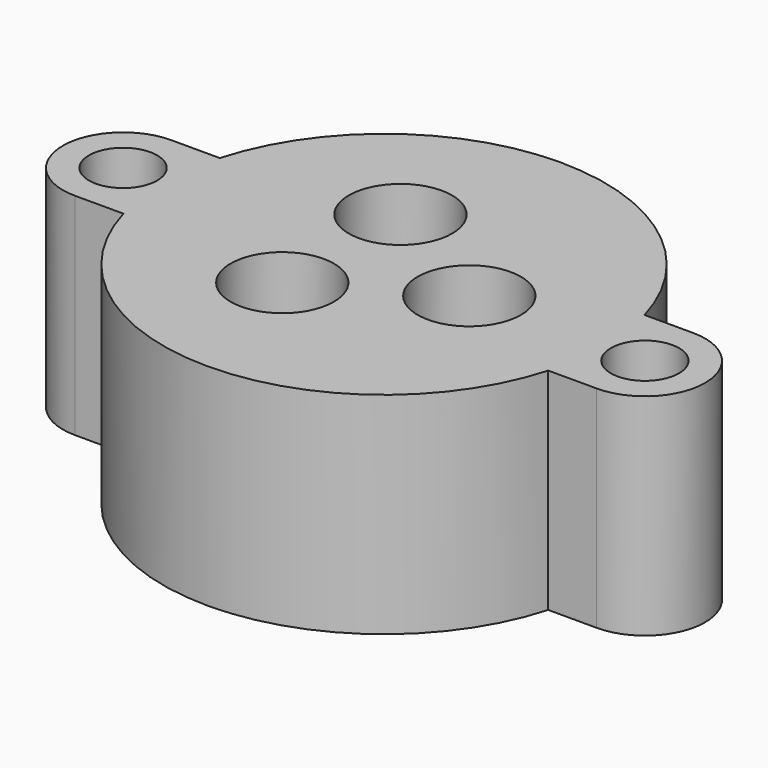
from build123d import *

# Parameters (mm, degrees)
CYLINDER203_R     = 1.7
CYLINDER203_DEPTH = 11
CYLINDER200_R     = 7.14375
CYLINDER200_DEPTH = 2.38125
CYLINDER208_R     = 9.525
CYLINDER208_DEPTH = 2.38125
CYLINDER209_R     = 2.2
CYLINDER209_DEPTH = 9
CYLINDER206_R     = 0.8
CYLINDER206_DEPTH = 5
CYLINDER207_R     = 2.575
CYLINDER207_DEPTH = 6
ARRAY005_COUNT    = 3
CYLINDER202_R     = 1.7
CYLINDER202_DEPTH = 11
BOX011_W          = 3
BOX011_H          = 6
BOX011_DEPTH      = 10.5
BOX010_W          = 3
BOX010_H          = 6
BOX010_DEPTH      = 10.5
CYLINDER201_R     = 3
CYLINDER201_DEPTH = 10.5
CYLINDER204_R     = 11
CYLINDER204_DEPTH = 10.5
CYLINDER205_R     = 3
CYLINDER205_DEPTH = 10.5


with BuildPart() as obj1:
    # Cylinder203 → Cylinder203 (new body)
    with BuildSketch(Plane(origin=(-13, 0, 0), x_dir=(1, 0, 0), z_dir=(0, 0, 1))):
        Circle(CYLINDER203_R)
    extrude(amount=CYLINDER203_DEPTH)


with BuildPart() as cylinder018:
    # Cylinder200 → Cylinder200 (new body)
    with BuildSketch(Plane.XY):
        Circle(CYLINDER200_R)
    extrude(amount=CYLINDER200_DEPTH)


with BuildPart() as oring005:
    # Cylinder208 → Cylinder208 (new body)
    with BuildSketch(Plane.XY):
        Circle(CYLINDER208_R)
    extrude(amount=CYLINDER208_DEPTH)

    # Cut029: cut Cylinder018
    add(cylinder018.part, mode=Mode.SUBTRACT)


with BuildPart() as oring005_1:
    # Cut029 placement: moved
    add(oring005.part.moved(Location((0, 0, -0.75))))


with BuildPart() as sealsubtraction005:
    # Cylinder209 → Cylinder209 (new body)
    with BuildSketch(Plane.XY.offset(1.3)):
        Circle(CYLINDER209_R)
    extrude(amount=CYLINDER209_DEPTH)


with BuildPart() as bottomwireoutlet005:
    # Cylinder206 → Cylinder206 (new body)
    with BuildSketch(Plane.XY.offset(-2)):
        Circle(CYLINDER206_R)
    extrude(amount=CYLINDER206_DEPTH)


with BuildPart() as sealarray005:
    # Cylinder207 → Cylinder207 (new body)
    with BuildSketch(Plane.XY.offset(4.5)):
        Circle(CYLINDER207_R)
    extrude(amount=CYLINDER207_DEPTH)

    # Fusion015: union SealSubtraction005, BottomWireOutlet005
    add(sealsubtraction005.part)
    add(bottomwireoutlet005.part)


with BuildPart() as sealarray005_1:
    # Fusion015 placement: moved
    add(sealarray005.part.moved(Location((4.25, 0, 0))))

    # Array005: SealArray005 ×3 about axis
    array005_axis = Axis((0, 0, 0), (0, 0, 1))


with BuildPart() as sealarray005_2:
    add(sealarray005_1.part)
    for i in range(1, ARRAY005_COUNT):
        add(sealarray005_1.part.rotate(array005_axis, i * 360 / ARRAY005_COUNT))


with BuildPart() as fusion016:
    # Cylinder202 → Cylinder202 (new body)
    with BuildSketch(Plane(origin=(13, 0, 0), x_dir=(1, 0, 0), z_dir=(0, 0, 1))):
        Circle(CYLINDER202_R)
    extrude(amount=CYLINDER202_DEPTH)

    # Fusion016: union obj1, Oring005, SealArray005
    add(obj1.part)
    add(oring005_1.part)
    add(sealarray005_2.part)


with BuildPart() as mountcube012:
    # Box011 → Box011 (new body)
    with BuildSketch(Plane(origin=(10, -3, 0), x_dir=(1, 0, 0), z_dir=(0, 0, 1))):
        with Locations((1.5, 3)):
            Rectangle(BOX011_W, BOX011_H)
    extrude(amount=BOX011_DEPTH)


with BuildPart() as mountcube011:
    # Box010 → Box010 (new body)
    with BuildSketch(Plane(origin=(-13, -3, 0), x_dir=(1, 0, 0), z_dir=(0, 0, 1))):
        with Locations((1.5, 3)):
            Rectangle(BOX010_W, BOX010_H)
    extrude(amount=BOX010_DEPTH)


with BuildPart() as mountflange011:
    # Cylinder201 → Cylinder201 (new body)
    with BuildSketch(Plane(origin=(-13, 0, 0), x_dir=(1, 0, 0), z_dir=(0, 0, 1))):
        Circle(CYLINDER201_R)
    extrude(amount=CYLINDER201_DEPTH)


with BuildPart() as body005:
    # Cylinder204 → Cylinder204 (new body)
    with BuildSketch(Plane.XY):
        Circle(CYLINDER204_R)
    extrude(amount=CYLINDER204_DEPTH)


with BuildPart() as cut030:
    # Cylinder205 → Cylinder205 (new body)
    with BuildSketch(Plane(origin=(13, 0, 0), x_dir=(1, 0, 0), z_dir=(0, 0, 1))):
        Circle(CYLINDER205_R)
    extrude(amount=CYLINDER205_DEPTH)

    # Fusion017: union MountCube012, MountCube011, MountFlange011, Body005
    add(mountcube012.part)
    add(mountcube011.part)
    add(mountflange011.part)
    add(body005.part)

    # Cut030: cut Fusion016
    add(fusion016.part, mode=Mode.SUBTRACT)


with BuildPart() as cut030_1:
    # Cut030 placement: moved
    add(cut030.part.moved(Location((0, 0, -10.5))))


solid = cut030_1.part
